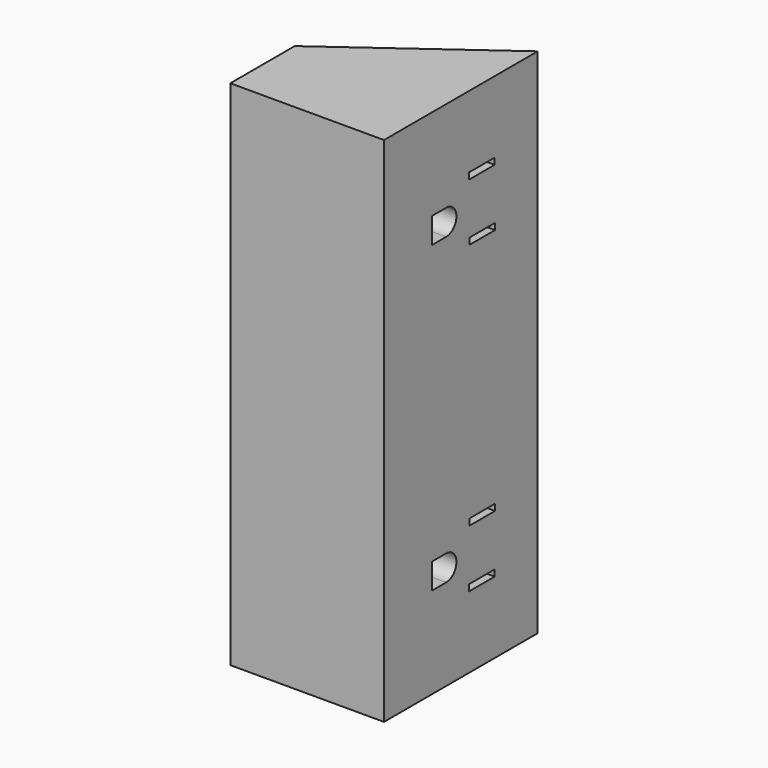
from build123d import *

# Parameters (mm, degrees)
F1_DEPTH = 101.6
F2_W     = 6.35
F2_H     = 1.27
F2_W_2   = 3.5404078662
F2_H_2   = 5.08
F3_DEPTH = 12.7
F4_DEPTH = 12.7


with BuildPart() as f1:
    # F0 (on Top) → F1 (new body)
    with BuildSketch(Plane.XY):
        Polygon((0, 38.1), (-30.48, 15.961895347), (-30.48, 0), (0, 0), align=None)
    extrude(amount=F1_DEPTH)

    # F2 (on face) → F3 (cut)
    with BuildSketch(Plane.YZ):
        with Locations((24.2689500645, 86.7467758033)):
            Rectangle(F2_W, F2_H)
        with Locations((24.3418384343, 75.3167758033)):
            Rectangle(F2_W, F2_H)
        with Locations((13.6419944465, 80.9715090013)):
            Rectangle(F2_W_2, F2_H_2)
        with BuildLine():
            ThreePointArc((15.4121983796, 78.4315090013), (17.9521983796, 80.9715090013), (15.4121983796, 83.5115090013))
            Line((15.4121983796, 83.5115090013), (15.4121983796, 78.4315090013))
        make_face()
    extrude(amount=-F3_DEPTH, mode=Mode.SUBTRACT)

    # F2 (on face) → F4 (cut)
    with BuildSketch(Plane.YZ):
        with Locations((24.3418384343, 26.2832241967)):
            Rectangle(F2_W, F2_H)
        with Locations((24.2689500645, 14.8532241967)):
            Rectangle(F2_W, F2_H)
        with BuildLine():
            ThreePointArc((15.4121983796, 18.0884909987), (17.9521983796, 20.6284909987), (15.4121983796, 23.1684909987))
            Line((15.4121983796, 23.1684909987), (15.4121983796, 18.0884909987))
        make_face()
        with Locations((13.6419944465, 20.6284909987)):
            Rectangle(F2_W_2, F2_H_2)
    extrude(amount=-F4_DEPTH, mode=Mode.SUBTRACT)


solid = f1.part
